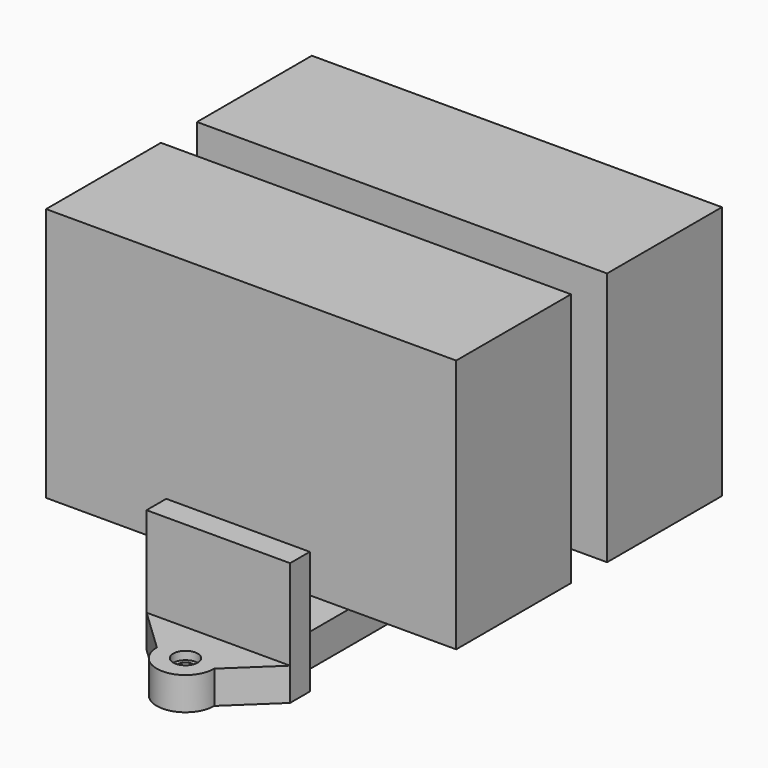
from build123d import *

# Parameters (mm, degrees)
F3_START = 18
F2_W     = 100
F2_H     = 35
F3_DEPTH = 62
F4_R     = 3
F4_W     = 23.4121587127
F4_H     = 41
F4_W_2   = 5.7939206436
F4_H_2   = 7
F5_DEPTH = 8
F6_DEPTH = 30
F4_R_2   = 2
F7_DEPTH = 6


with BuildPart() as f3:
    # F2 (on Top) → F3 (new body)
    with BuildSketch(Plane.XY.offset(F3_START)):
        with Locations((0, 23)):
            Rectangle(F2_W, F2_H)
    extrude(amount=F3_DEPTH)


with BuildPart() as f3b:
    # F2 (on Top) → F3, piece 2 (new body)
    with BuildSketch(Plane.XY.offset(F3_START)):
        with Locations((0, -23)):
            Rectangle(F2_W, F2_H)
    extrude(amount=F3_DEPTH)


with BuildPart() as f5:
    # F4 (on Top) → F5 (new body)
    with BuildSketch(Plane.XY):
        with BuildLine():
            ThreePointArc((-6.9999723653, 60.4803306038), (0, 53.5), (6.9999723653, 60.4803306038))
            ThreePointArc((6.9999723653, 60.4803306038), (6.9999930913, 60.4901652922), (7, 60.5))
            ThreePointArc((7, 60.5), (-0.0098347078, 67.4999930913), (-6.9999723653, 60.4803306038))
        make_face()
        with Locations((0, 60.5)):
            Circle(F4_R, mode=Mode.SUBTRACT)
        with BuildLine():
            Line((-17.5, 50.5), (17.5, 50.5))
            Line((17.5, 50.5), (6.9999723653, 60.4803306038))
            ThreePointArc((6.9999723653, 60.4803306038), (0, 53.5), (-6.9999723653, 60.4803306038))
            Line((-6.9999723653, 60.4803306038), (-17.5, 50.5))
        make_face()
        Polygon((-11.7060793564, 44.5), (11.7060793564, 44.5), (17.5, 44.5), (17.5, 50.5), (-17.5, 50.5), (-17.5, 44.5), align=None)
        with Locations((0, 24)):
            Rectangle(F4_W, F4_H)
        with Locations((14.6030396782, 0)):
            Rectangle(F4_W_2, F4_H_2)
        Rectangle(F4_W, F4_H_2)
        with Locations((-14.6030396782, 0)):
            Rectangle(F4_W_2, F4_H_2)
        with Locations((0, -24)):
            Rectangle(F4_W, F4_H)
        Polygon((17.5, -44.5), (11.7060793564, -44.5), (-11.7060793564, -44.5), (-17.5, -44.5), (-17.5, -50.5), (17.5, -50.5), align=None)
        with BuildLine():
            Line((6.9999723653, -60.4803306038), (17.5, -50.5))
            Line((17.5, -50.5), (-17.5, -50.5))
            Line((-17.5, -50.5), (-6.9999723653, -60.4803306038))
            ThreePointArc((-6.9999723653, -60.4803306038), (0, -53.5), (6.9999723653, -60.4803306038))
        make_face()
        with BuildLine():
            ThreePointArc((7, -60.5), (6.9999930913, -60.4901652922), (6.9999723653, -60.4803306038))
            ThreePointArc((6.9999723653, -60.4803306038), (0, -53.5), (-6.9999723653, -60.4803306038))
            ThreePointArc((-6.9999723653, -60.4803306038), (-0.0098347078, -67.4999930913), (7, -60.5))
        make_face()
        with Locations((0, -60.5)):
            Circle(F4_R, mode=Mode.SUBTRACT)
    extrude(amount=F5_DEPTH)

    # F4 (on Top) → F6 (join)
    with BuildSketch(Plane.XY):
        with Locations((14.6030396782, 0)):
            Rectangle(F4_W_2, F4_H_2)
        Rectangle(F4_W, F4_H_2)
        with Locations((-14.6030396782, 0)):
            Rectangle(F4_W_2, F4_H_2)
        Polygon((17.5, -44.5), (11.7060793564, -44.5), (-11.7060793564, -44.5), (-17.5, -44.5), (-17.5, -50.5), (17.5, -50.5), align=None)
        Polygon((-11.7060793564, 44.5), (11.7060793564, 44.5), (17.5, 44.5), (17.5, 50.5), (-17.5, 50.5), (-17.5, 44.5), align=None)
    extrude(amount=F6_DEPTH)

    # F4 (on Top) → F7 (join)
    with BuildSketch(Plane.XY):
        with Locations((0, 60.5)):
            Circle(F4_R)
        with Locations((0, 60.5)):
            Circle(F4_R_2, mode=Mode.SUBTRACT)
        with Locations((0, -60.5)):
            Circle(F4_R)
        with Locations((0, -60.5)):
            Circle(F4_R_2, mode=Mode.SUBTRACT)
    extrude(amount=F7_DEPTH)


solid = Compound([f3.part, f3b.part, f5.part])
